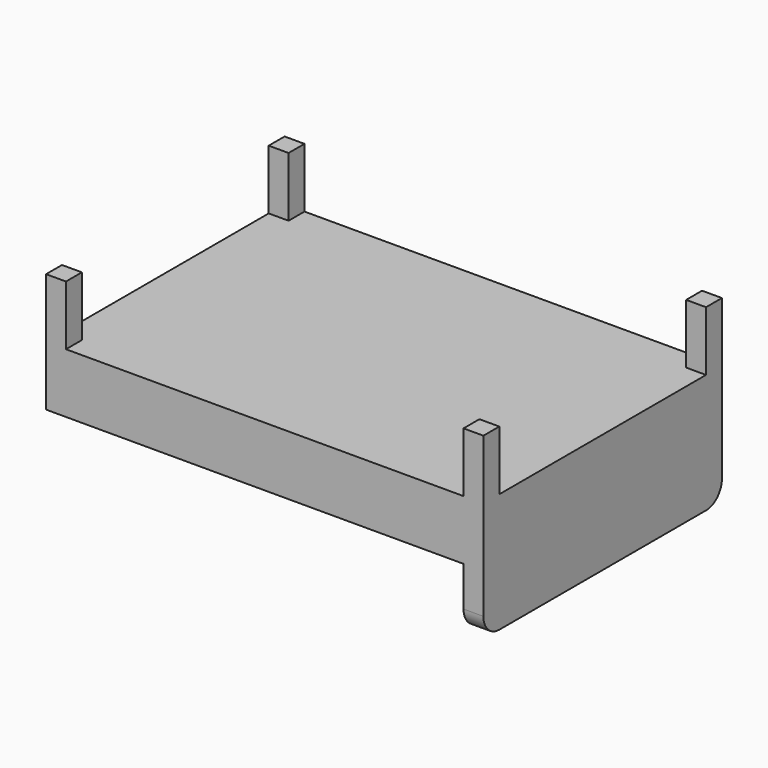
from build123d import *

# Parameters (mm, degrees)
F0_W     = 2200
F0_H     = 1500
F1_DEPTH = 300
F2_W     = 100
F2_H     = 100
F3_DEPTH = 300
F4_W     = 100
F4_H     = 1500
F5_DEPTH = 300
F6_R     = 100


with BuildPart() as f1:
    # F0 (on Top) → F1 (new body)
    with BuildSketch(Plane.XY):
        Rectangle(F0_W, F0_H)
    extrude(amount=F1_DEPTH)

    # F2 (on face) → F3 (join)
    with BuildSketch(Plane.XY.offset(300)):
        with Locations((-1050, -700)):
            Rectangle(F2_W, F2_H)
        with Locations((-1050, 700)):
            Rectangle(F2_W, F2_H)
        with Locations((1050, -700)):
            Rectangle(F2_W, F2_H)
        with Locations((1050, 700)):
            Rectangle(F2_W, F2_H)
    extrude(amount=F3_DEPTH)

    # F4 (on face) → F5 (join)
    with BuildSketch(Plane(origin=(0, 0, 0), x_dir=(1, 0, 0), z_dir=(0, 0, -1))):
        with Locations((1050, 0)):
            Rectangle(F4_W, F4_H)
    extrude(amount=F5_DEPTH)

    # F6
    f6_edges = [f1.edges().sort_by_distance(p)[0] for p in [
        (1050, -750, -300),
        (1050, 750, -300),
    ]]
    fillet(f6_edges, radius=F6_R)


solid = f1.part
